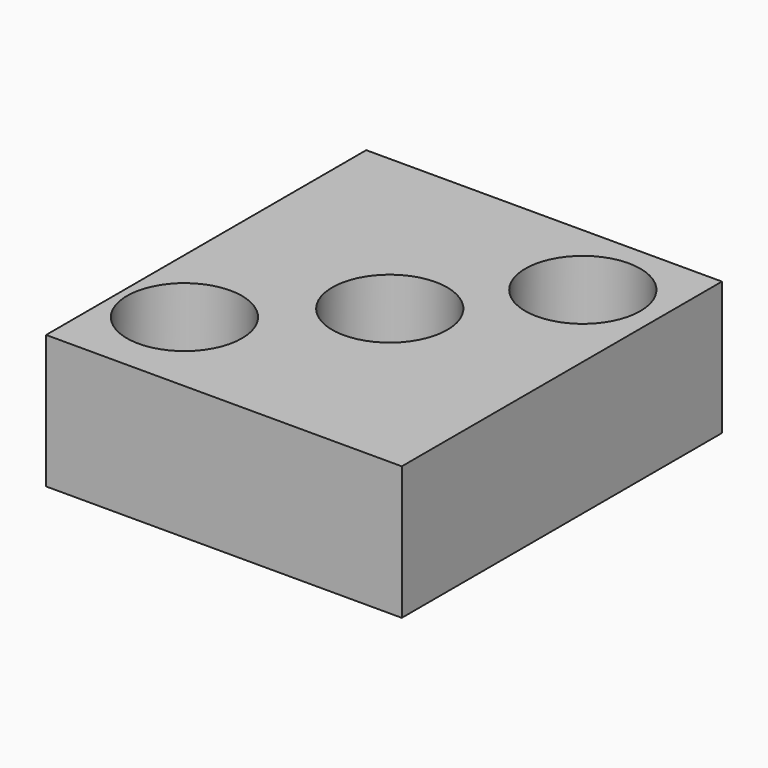
from build123d import *

# Parameters (mm, degrees)
SKETCH_W  = 80
SKETCH_H  = 90
SKETCH_R  = 12.93489
PAD_DEPTH = 30


with BuildPart() as part:
    # Sketch → Pad (new body)
    with BuildSketch(Plane.XY):
        with Locations((-16.957556, 53.680418)):
            Rectangle(SKETCH_W, SKETCH_H)
        with Locations((-42.216557, 29.153965)):
            Circle(SKETCH_R, mode=Mode.SUBTRACT)
        with Locations((-16.072264, 54.191032)):
            Circle(SKETCH_R, mode=Mode.SUBTRACT)
        with Locations((5.941536, 80.952904)):
            Circle(SKETCH_R, mode=Mode.SUBTRACT)
    extrude(amount=PAD_DEPTH)


solid = part.part
